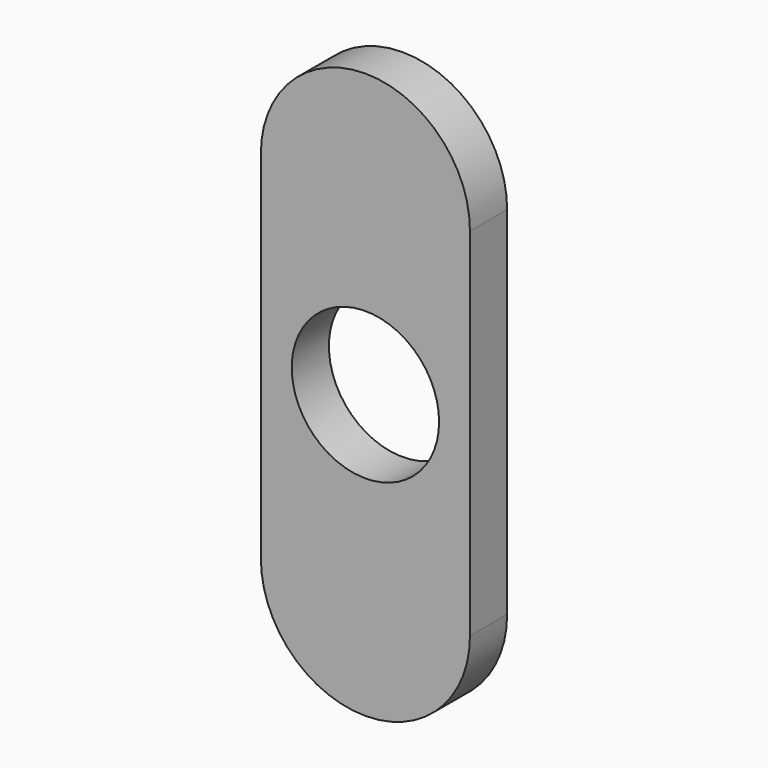
from build123d import *

# Parameters (mm, degrees)
F0_R     = 13.25
F0_R_2   = 11.1
F1_DEPTH = 3.5
F2_START = 2.5
F2_DEPTH = 1
F3_START = -2.5
F3_DEPTH = 1


with BuildPart() as f1:
    # F0 (on Front) → F1 (new body, symmetric)
    with BuildSketch(Plane.XZ):
        with BuildLine():
            Line((15.75, -26.85), (15.75, 26.85))
            ThreePointArc((15.75, 26.85), (0, 42.6), (-15.75, 26.85))
            Line((-15.75, 26.85), (-15.75, -26.85))
            ThreePointArc((-15.75, -26.85), (0, -42.6), (15.75, -26.85))
        make_face()
        with Locations((0, -26.85)):
            Circle(F0_R, mode=Mode.SUBTRACT)
        Circle(F0_R_2, mode=Mode.SUBTRACT)
        with Locations((0, 26.85)):
            Circle(F0_R, mode=Mode.SUBTRACT)
    extrude(amount=F1_DEPTH, both=True)

    # F0 (on Front) → F2 (join)
    with BuildSketch(Plane.XZ.offset(F2_START)):
        with Locations((0, 26.85)):
            Circle(F0_R)
        with Locations((0, -26.85)):
            Circle(F0_R)
    extrude(amount=F2_DEPTH)

    # F0 (on Front) → F3 (join)
    with BuildSketch(Plane.XZ.offset(F3_START)):
        with Locations((0, 26.85)):
            Circle(F0_R)
        with Locations((0, -26.85)):
            Circle(F0_R)
    extrude(amount=-F3_DEPTH)


solid = f1.part
